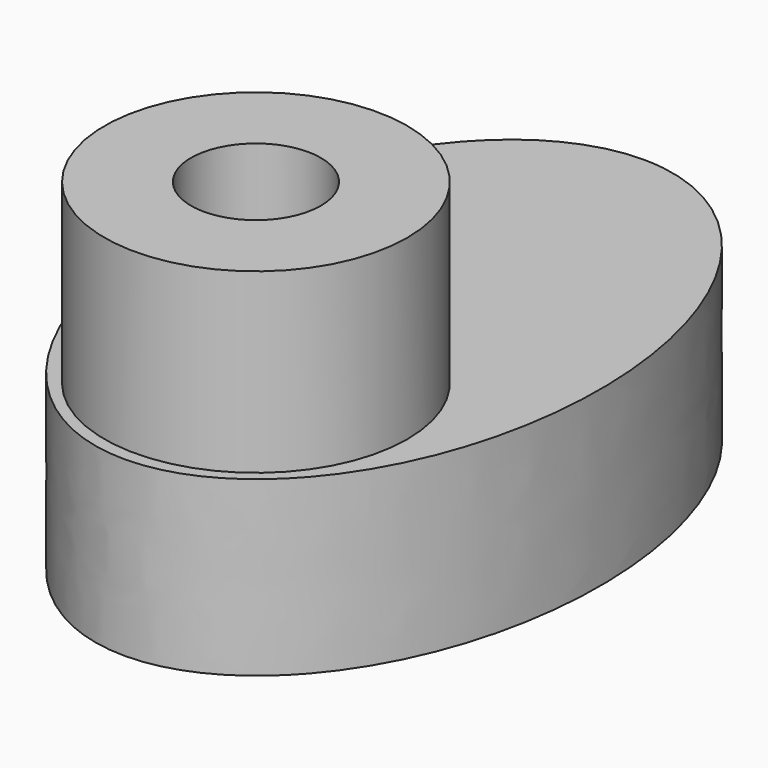
from build123d import *

# Parameters (mm, degrees)
F0_R     = 3.5
F1_DEPTH = 4
F0_R_2   = 1.5
F2_DEPTH = 8.1


with BuildPart() as f1:
    # F0 (on Top) → F1 (new body)
    with BuildSketch(Plane.XY):
        with BuildLine():
            add(Edge.make_bspline(
                [(0, 7.5), (-8.660254, 7.5), (-4.330127, -3.75), (0, -15), (4.330127, -3.75), (8.660254, 7.5), (0, 7.5)],
                knots=[0, 0, 0, 2.094395, 2.094395, 4.18879, 4.18879, 6.283185, 6.283185, 6.283185], degree=2, weights=[1, 0.5, 1, 0.5, 1, 0.5, 1]))
        make_face()
        with Locations((0, -3.7)):
            Circle(F0_R, mode=Mode.SUBTRACT)
    extrude(amount=F1_DEPTH)

    # F0 (on Top) → F2 (join)
    with BuildSketch(Plane.XY):
        with Locations((0, -3.7)):
            Circle(F0_R)
        with Locations((0, -3.7)):
            Circle(F0_R_2, mode=Mode.SUBTRACT)
    extrude(amount=F2_DEPTH)


solid = f1.part
